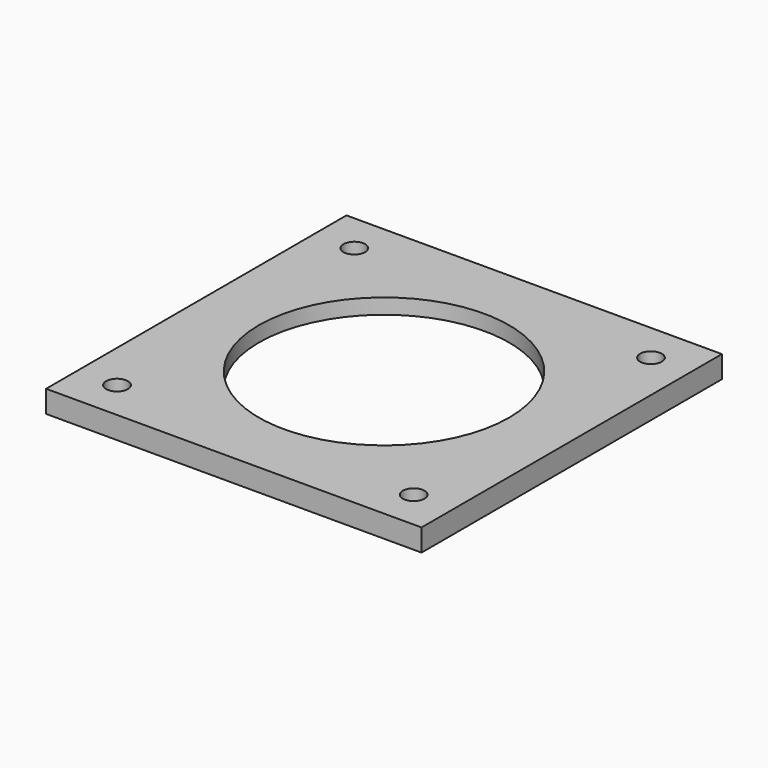
from build123d import *

# Parameters (mm, degrees)
SKETCH_W        = 76.2
SKETCH_H        = 76.2
PAD_DEPTH       = 4.5
SKETCH003_R     = 25.4
POCKET_DEPTH    = 4.501
SKETCH001_R     = 2.2
POCKET001_DEPTH = 4.501
SKETCH004_R     = 30.1625
POCKET002_DEPTH = 1.4


with BuildPart() as part:
    # Sketch → Pad (new body)
    with BuildSketch(Plane.XY):
        with Locations((38.1, 38.1)):
            Rectangle(SKETCH_W, SKETCH_H)
    extrude(amount=PAD_DEPTH)

    # Sketch003 (on Face6 of Pad) → Pocket (cut, through all)
    with BuildSketch(Plane.XY.offset(4.5)):
        with Locations((38.1, 38.1)):
            Circle(SKETCH003_R)
    extrude(amount=-POCKET_DEPTH, mode=Mode.SUBTRACT)

    # Sketch001 (on Face6 of Pad) → Pocket001 (cut, through all)
    with BuildSketch(Plane.XY.offset(4.5)):
        with Locations((8, 8)):
            Circle(SKETCH001_R)
        with Locations((68.2, 8)):
            Circle(SKETCH001_R)
        with Locations((68.2, 68.2)):
            Circle(SKETCH001_R)
        with Locations((8, 68.2)):
            Circle(SKETCH001_R)
    extrude(amount=-POCKET001_DEPTH, mode=Mode.SUBTRACT)

    # Sketch004 (on Face4 of Pocket001) → Pocket002 (cut)
    with BuildSketch(Plane(origin=(0, 0, 0), x_dir=(1, 0, 0), z_dir=(0, 0, -1))):
        with Locations((38.1, -38.1)):
            Circle(SKETCH004_R)
    extrude(amount=-POCKET002_DEPTH, mode=Mode.SUBTRACT)


solid = part.part
